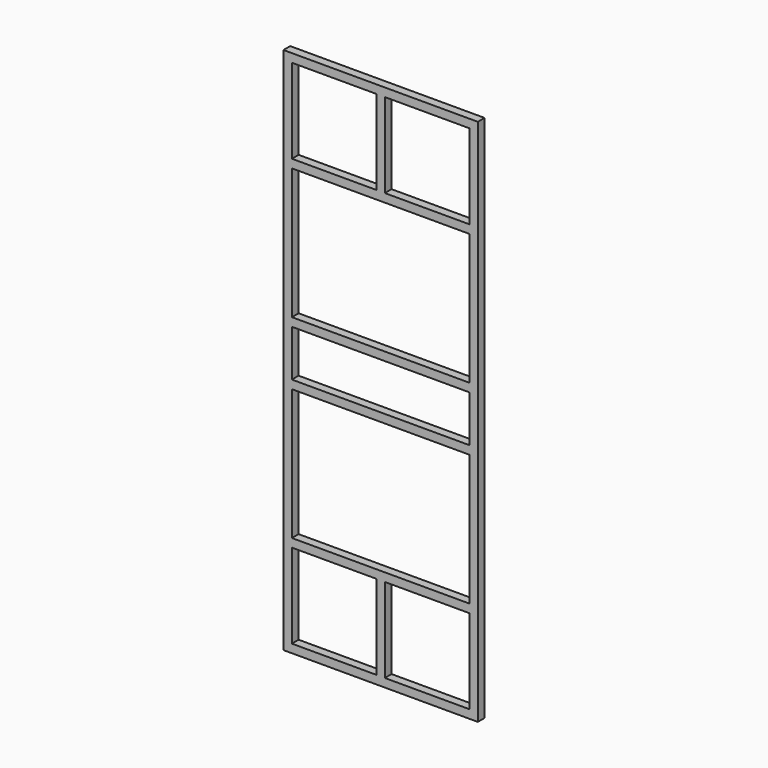
from build123d import *

# Parameters (mm, degrees)
F0_W     = 2
F0_H     = 40
F0_W_2   = 42
F0_H_2   = 4
F1_DEPTH = 4


with BuildPart() as f1:
    # F0 (on Front) → F1 (new body)
    with BuildSketch(Plane.XZ):
        Polygon((-46, 125), (-46, 0), (-42, 0), (-42, 11), (-42, 15), (-42, 77), (-42, 81), (-42, 121), (-42, 125), align=None)
        Polygon((-42, 0), (-46, 0), (-46, -125), (-42, -125), (-42, -121), (-42, -89), (-42, -81), (-42, -77), (-42, -15), (-42, -11), align=None)
        Polygon((0, 125), (-42, 125), (-42, 121), (-2, 121), (0, 121), align=None)
        Polygon((-42, -121), (-42, -125), (0, -125), (0, -121), (-2, -121), align=None)
        Polygon((42, 11), (42, 0), (46, 0), (46, 125), (42, 125), (42, 121), (42, 81), (42, 77), (42, 15), align=None)
        Polygon((46, 0), (42, 0), (42, -11), (42, -15), (42, -77), (42, -81), (42, -121), (42, -125), (46, -125), align=None)
        Polygon((42, 125), (0, 125), (0, 121), (2, 121), (42, 121), align=None)
        Polygon((0, -121), (0, -125), (42, -125), (42, -121), (2, -121), align=None)
        Polygon((0, -77), (-42, -77), (-42, -81), (-2, -81), (0, -81), align=None)
        Polygon((42, -77), (0, -77), (0, -81), (2, -81), (42, -81), align=None)
        Polygon((-2, -113), (-2, -121), (0, -121), (0, -81), (-2, -81), align=None)
        with Locations((1, -101)):
            Rectangle(F0_W, F0_H)
        with Locations((-21, -13)):
            Rectangle(F0_W_2, F0_H_2)
        with Locations((21, -13)):
            Rectangle(F0_W_2, F0_H_2)
        with Locations((21, 13)):
            Rectangle(F0_W_2, F0_H_2)
        with Locations((-21, 13)):
            Rectangle(F0_W_2, F0_H_2)
        Polygon((-42, 81), (-42, 77), (0, 77), (0, 81), (-2, 81), align=None)
        Polygon((0, 81), (0, 77), (42, 77), (42, 81), (2, 81), align=None)
        with Locations((1, 101)):
            Rectangle(F0_W, F0_H)
        with Locations((-1, 101)):
            Rectangle(F0_W, F0_H)
    extrude(amount=F1_DEPTH)


solid = f1.part
